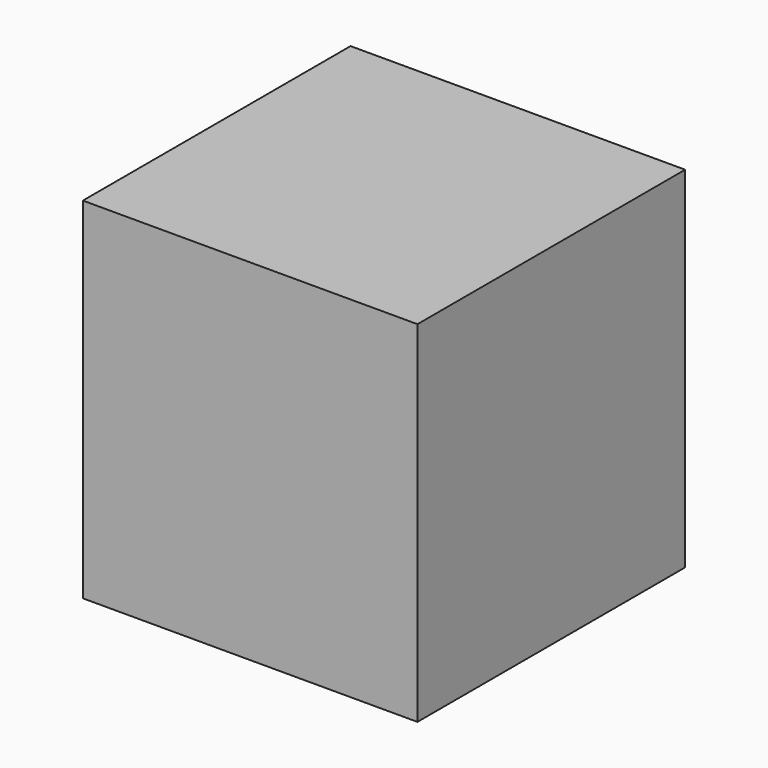
from build123d import *

# Parameters (mm, degrees)
BOX_W     = 43
BOX_H     = 43
BOX_DEPTH = 45


with BuildPart() as part:
    # Box → Box (new body)
    with BuildSketch(Plane.XY):
        with Locations((21.5, 21.5)):
            Rectangle(BOX_W, BOX_H)
    extrude(amount=BOX_DEPTH)


solid = part.part
